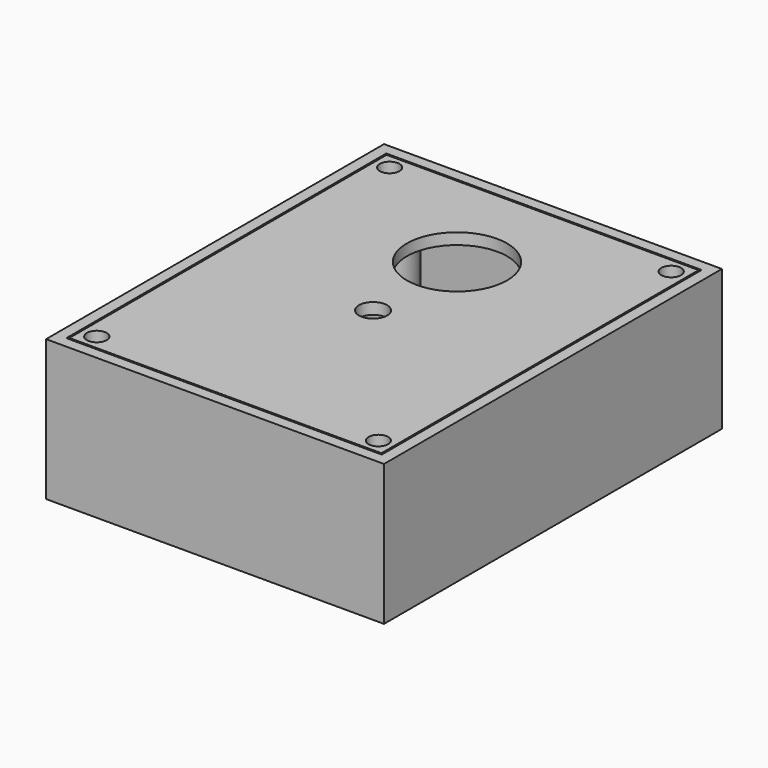
from build123d import *

# Parameters (mm, degrees)
F0_W      = 60
F0_H      = 75
F1_DEPTH  = 25
F2_T      = -2
F3_R      = 4.25
F3_R_2    = 1
F4_DEPTH  = 20.7
F5_W      = 55.4
F5_H      = 70.4
F5_R      = 1.75
F6_DEPTH  = 2
F7_R      = 8.9
F7_R_2    = 2.5
F8_DEPTH  = 2
F9_R      = 4.25
F10_DEPTH = 2


with BuildPart() as f1:
    # F0 (on Top) → F1 (new body)
    with BuildSketch(Plane.XY):
        Rectangle(F0_W, F0_H)
    extrude(amount=F1_DEPTH)

    # F2
    f2_openings = [f1.faces().sort_by_distance(p)[0] for p in [
        (0, 0, 25),
    ]]
    offset(amount=F2_T, openings=f2_openings)

    # F3 (on face) → F4 (join)
    with BuildSketch(Plane.XY.offset(2)):
        with Locations((-25, -32.5)):
            Circle(F3_R)
        with Locations((-25, -32.5)):
            Circle(F3_R_2, mode=Mode.SUBTRACT)
        with Locations((25, -32.5)):
            Circle(F3_R)
        with Locations((25, -32.5)):
            Circle(F3_R_2, mode=Mode.SUBTRACT)
        with Locations((25, 32.5)):
            Circle(F3_R)
        with Locations((25, 32.5)):
            Circle(F3_R_2, mode=Mode.SUBTRACT)
        with Locations((-25, 32.5)):
            Circle(F3_R)
        with Locations((-25, 32.5)):
            Circle(F3_R_2, mode=Mode.SUBTRACT)
    extrude(amount=F4_DEPTH)

    # F9 (on face) → F10 (cut, through all)
    with BuildSketch(Plane(origin=(0, 37.5, 0), x_dir=(-1, 0, 0), z_dir=(0, 1, 0))):
        with Locations((0, 8)):
            Circle(F9_R)
    extrude(amount=-F10_DEPTH, mode=Mode.SUBTRACT)


with BuildPart() as f6:
    # F5 (on face) → F6 (new body)
    with BuildSketch(Plane.XY.offset(25)):
        Rectangle(F5_W, F5_H)
        with Locations((-25, -32.5)):
            Circle(F5_R, mode=Mode.SUBTRACT)
        with Locations((25, -32.5)):
            Circle(F5_R, mode=Mode.SUBTRACT)
        with Locations((-25, 32.5)):
            Circle(F5_R, mode=Mode.SUBTRACT)
        with Locations((25, 32.5)):
            Circle(F5_R, mode=Mode.SUBTRACT)
    extrude(amount=-F6_DEPTH)

    # F7 (on face) → F8 (cut, through all)
    with BuildSketch(Plane.XY.offset(25)):
        with Locations((0, 16.2)):
            Circle(F7_R)
        with Locations((0, -2.430438)):
            Circle(F7_R_2)
    extrude(amount=-F8_DEPTH, mode=Mode.SUBTRACT)


solid = Compound([f1.part, f6.part])
